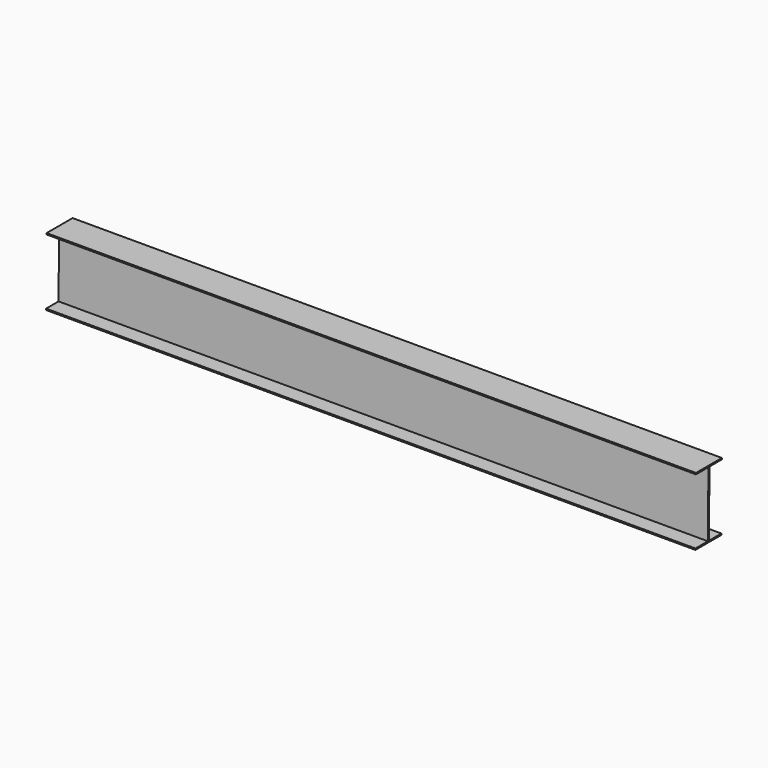
from build123d import *

# Parameters (mm, degrees)
EXTRUDE_DEPTH = 5000


with BuildPart() as part:
    # Sketch → Extrude (new body)
    with BuildSketch(Plane.YZ):
        Polygon((0, 0), (120, 0), (125, 500), (5, 500), (5, 510), (125, 510), (135, 510), (255, 510), (255, 500), (135, 500), (130, 0), (250, 0), (250, -10), (130, -10), (120, -10), (0, -10), align=None)
    extrude(amount=EXTRUDE_DEPTH)


solid = part.part
